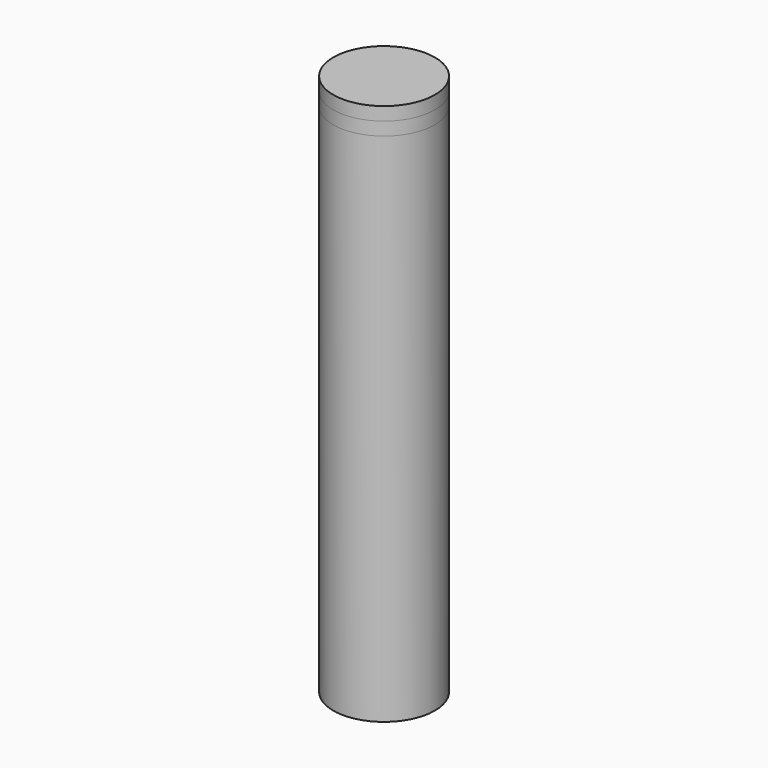
from build123d import *

# Parameters (mm, degrees)
F0_R          = 44.45
F1_DEPTH      = 1000
F0_R_2        = 96
F0_R_3        = 92.5
F2_R          = 7.5
F2_R_2        = 6.5
F3_DEPTH      = 15
F4_R          = 96
F5_DEPTH      = 25
F5_DEPTH_BACK = 25
F6_R          = 7.5
F6_R_2        = 6.5
F7_DEPTH      = 15


with BuildPart() as f1:
    # F0 (on Top) → F1 (new body)
    with BuildSketch(Plane.XY):
        with Locations((-32.7036886299, -32.7036886299)):
            Circle(F0_R)
    extrude(amount=F1_DEPTH)



with BuildPart() as f1b:
    # F0 (on Top) → F1, piece 2 (new body)
    with BuildSketch(Plane.XY):
        with Locations((32.7036886299, 32.7036886299)):
            Circle(F0_R)
    extrude(amount=F1_DEPTH)

    # F2 (on face) → F3 (join)
    with BuildSketch(Plane(origin=(0, 0, 0), x_dir=(1, 0, 0), z_dir=(0, 0, -1))):
        with Locations((32.7036886299, -32.7036886299)):
            Circle(F2_R)
        with Locations((32.7036886299, -32.7036886299)):
            Circle(F2_R_2, mode=Mode.SUBTRACT)
    extrude(amount=F3_DEPTH)


with BuildPart() as f1c:
    # F0 (on Top) → F1, piece 3 (new body)
    with BuildSketch(Plane.XY):
        Circle(F0_R_2)
        Circle(F0_R_3, mode=Mode.SUBTRACT)
    extrude(amount=F1_DEPTH)


with BuildPart() as f1_1:
    add(f1.part)

    add(f1b.part)  # F5 merges F1b

    add(f1c.part)  # F5 merges F1c
    # F4 (on face) → F5 (join, two sides)
    with BuildSketch(Plane.XY.offset(1000)) as f5_sk:
        Circle(F4_R)
    extrude(amount=F5_DEPTH)
    extrude(f5_sk.sketch, amount=-F5_DEPTH_BACK)

    # F6 (on face) → F7 (join)
    with BuildSketch(Plane(origin=(0, 0, 0), x_dir=(1, 0, 0), z_dir=(0, 0, -1))):
        with Locations((-32.7036886299, 32.7036886299)):
            Circle(F6_R)
        with Locations((-32.7036886299, 32.7036886299)):
            Circle(F6_R_2, mode=Mode.SUBTRACT)
    extrude(amount=F7_DEPTH)


solid = f1_1.part
